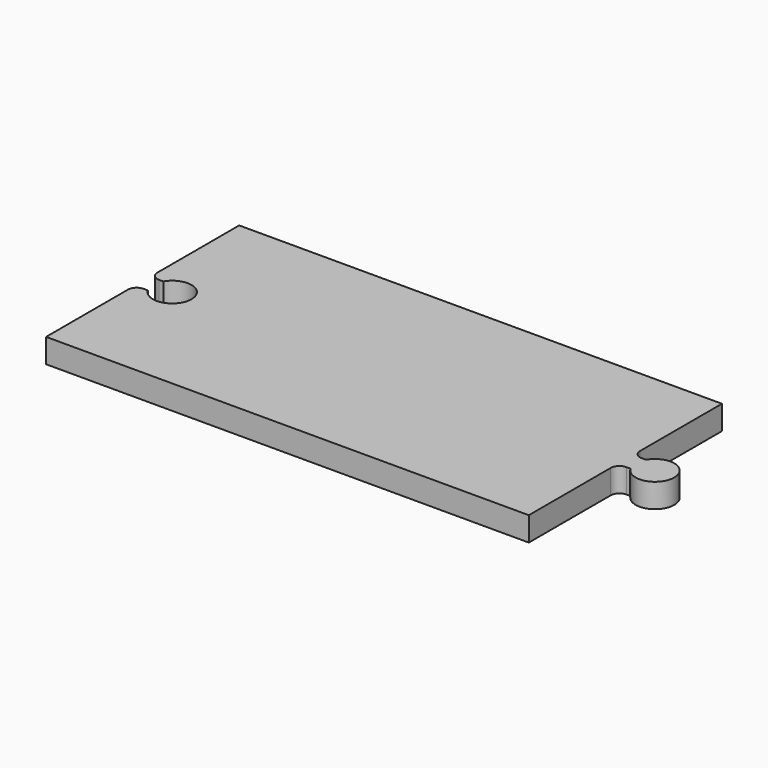
from build123d import *

# Parameters (mm, degrees)
F1_DEPTH = 5


with BuildPart() as f1:
    # F0 (on Top) → F1 (new body)
    with BuildSketch(Plane.XY):
        with BuildLine():
            Line((-9.758077, 38.413576), (-59.758077, 38.413576))
            Line((-59.758077, 38.413576), (-59.758077, 19.413576))
            Line((-59.758077, 19.413576), (-59.758077, 17.216746))
            ThreePointArc((-59.758077, 17.216746), (-59.229749, 15.942835), (-57.954909, 15.416749))
            Line((-57.954909, 15.416749), (-57.085515, 15.41643))
            ThreePointArc((-57.085515, 15.41643), (-49.623063, 13.411928), (-57.087164, 11.413576))
            Line((-57.087164, 11.413576), (-57.948048, 11.413576))
            Line((-57.948048, 11.413576), (-57.954909, 11.410403))
            ThreePointArc((-57.954909, 11.410403), (-59.229749, 10.884318), (-59.758077, 9.610406))
            Line((-59.758077, 9.610406), (-59.758077, 7.413576))
            Line((-59.758077, 7.413576), (-59.758077, -11.586424))
            Line((-59.758077, -11.586424), (-9.758077, -11.586424))
            Line((-9.758077, -11.586424), (-9.758077, 7.413576))
            Line((-9.758077, 7.413576), (-9.758077, 9.610406))
            ThreePointArc((-9.758077, 9.610406), (-9.229749, 10.884318), (-7.954909, 11.410403))
            Line((-7.954909, 11.410403), (-7.948048, 11.413576))
            Line((-7.948048, 11.413576), (-7.087164, 11.413576))
            ThreePointArc((-7.087164, 11.413576), (0.376937, 13.411928), (-7.085515, 15.41643))
            Line((-7.085515, 15.41643), (-7.954909, 15.416749))
            ThreePointArc((-7.954909, 15.416749), (-9.229749, 15.942835), (-9.758077, 17.216746))
            Line((-9.758077, 17.216746), (-9.758077, 19.413576))
            Line((-9.758077, 19.413576), (-9.758077, 38.413576))
        make_face()
        with BuildLine():
            Line((40.241923, 38.413576), (-9.758077, 38.413576))
            Line((-9.758077, 38.413576), (-9.758077, 19.413576))
            Line((-9.758077, 19.413576), (-9.758077, 17.216746))
            ThreePointArc((-9.758077, 17.216746), (-9.229749, 15.942835), (-7.954909, 15.416749))
            Line((-7.954909, 15.416749), (-7.085515, 15.41643))
            ThreePointArc((-7.085515, 15.41643), (0.376937, 13.411928), (-7.087164, 11.413576))
            Line((-7.087164, 11.413576), (-7.948048, 11.413576))
            Line((-7.948048, 11.413576), (-7.954909, 11.410403))
            ThreePointArc((-7.954909, 11.410403), (-9.229749, 10.884318), (-9.758077, 9.610406))
            Line((-9.758077, 9.610406), (-9.758077, 7.413576))
            Line((-9.758077, 7.413576), (-9.758077, -11.586424))
            Line((-9.758077, -11.586424), (40.241923, -11.586424))
            Line((40.241923, -11.586424), (40.241923, 9.613576))
            ThreePointArc((40.241923, 9.613576), (40.769131, 10.886368), (42.041923, 11.413576))
            Line((42.041923, 11.413576), (42.907822, 11.413576))
            ThreePointArc((42.907822, 11.413576), (50.371923, 13.413576), (42.907822, 15.413576))
            Line((42.907822, 15.413576), (42.041923, 15.413576))
            ThreePointArc((42.041923, 15.413576), (40.769131, 15.940784), (40.241923, 17.213576))
            Line((40.241923, 17.213576), (40.241923, 38.413576))
        make_face()
    extrude(amount=F1_DEPTH)


solid = f1.part
